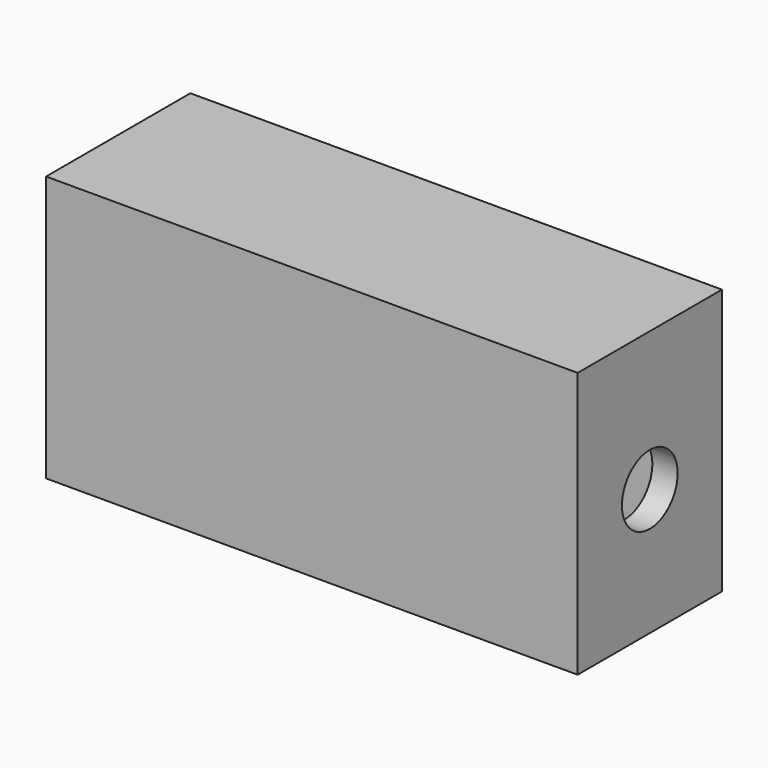
from build123d import *

# Parameters (mm, degrees)
F0_W     = 42
F0_H     = 14.25
F0_W_2   = 38
F0_H_2   = 10.25
F1_DEPTH = 1
F2_DEPTH = 20
F4_D     = 5.5
F4_DEPTH = 14.4


with BuildPart() as f1:
    # F0 (on Top) → F1 (new body)
    with BuildSketch(Plane.XY):
        Rectangle(F0_W, F0_H)
        Rectangle(F0_W_2, F0_H_2, mode=Mode.SUBTRACT)
        Rectangle(F0_W_2, F0_H_2)
    extrude(amount=F1_DEPTH)

    # F0 (on Top) → F2 (join)
    with BuildSketch(Plane.XY):
        Rectangle(F0_W, F0_H)
        Rectangle(F0_W_2, F0_H_2, mode=Mode.SUBTRACT)
    extrude(amount=-F2_DEPTH)

    # F4
    with Locations(Plane.YZ.offset(21)):
        with Locations((0, -10)):
            Hole(F4_D / 2, depth=F4_DEPTH)


solid = f1.part
